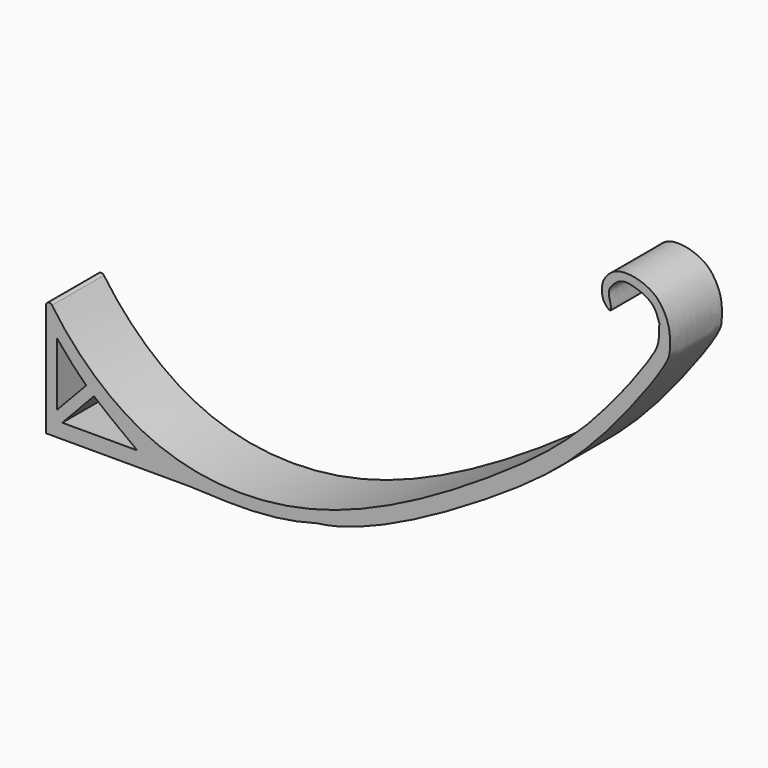
from build123d import *

# Parameters (mm, degrees)
F1_DEPTH = 10
F2_R     = 0.5


with BuildPart() as f1:
    # F0 (on Front) → F1 (new body)
    with BuildSketch(Plane.XZ):
        with BuildLine():
            add(Edge.make_bspline(
                [(-49.5372861624, -63.3506551385), (-45.9711812437, -68.9783096313), (-34.3891312467, -80.8068452574), (-7.4771664369, -82.0770632271), (19.8136309241, -66.0276906257), (34.1582339964, -54.972603579), (44.704253935, -40.8075554948), (44.9623912573, -39.2019823194), (44.9623912573, -36.7359444499)],
                knots=[0, 0, 0, 0, 0.1804424287, 0.3764422318, 0.5926473832, 0.7650211756, 0.9175145081, 1, 1, 1, 1], degree=3))
            Line((-49.5372861624, -63.3506551385), (-49.5372861624, -82.3942050338))
            Line((-49.5372861624, -82.3942050338), (-27.4697560817, -82.3942050338))
            add(Edge.make_bspline(
                [(-27.4697560817, -82.3942050338), (-20.2875528485, -82.7282592654), (-14.7756319493, -82.9787999392), (-7.789125666, -81.0224413872)],
                knots=[0, 0, 0, 0, 19.7283792811, 19.7283792811, 19.7283792811, 19.7283792811], degree=3))
            add(Edge.make_bspline(
                [(44.9623912573, -36.7359444499), (44.7225196199, -35.9576764429), (44.2204775105, -34.3287914439), (41.5174001013, -33.0556377763), (39.1263474952, -32.5947156876), (37.6625317005, -33.9092874197), (36.8828394431, -35.0930642768), (38.0223737466, -38.0416882903), (36.1468771987, -36.704729477), (35.9419076494, -34.1418832649), (37.073259725, -32.5554470337), (38.5815600447, -31.5148595343), (41.269623617, -31.591566979), (43.5211229907, -32.4889378286), (45.1038800008, -33.7085644705), (46.7127667446, -36.6320892502), (46.593533137, -39.768893845), (46.4949896463, -41.7964651413), (35.3290028327, -56.9449708658), (21.5371832683, -67.9613858584), (0, -80.119587481), (-7.789125666, -81.0224413872)],
                knots=[0, 0, 0, 0, 0.0410036186, 0.0858189963, 0.1261641675, 0.1611085302, 0.1931310538, 0.231977277, 0.26054229, 0.302799575, 0.338897493, 0.3736893675, 0.4164308355, 0.4574355751, 0.4944062687, 0.5423556073, 0.5876910609, 0.6236099552, 0.7319765857, 0.8529617587, 1, 1, 1, 1], degree=3))
        make_face()
        with BuildLine():
            Line((-47.8471666574, -78.6584094167), (-47.8471666574, -68.9484551549))
            add(Edge.make_bspline(
                [(-47.8471666574, -68.9484551549), (-46.1159435631, -71.0674730926), (-44.804396005, -72.5225857668), (-43.3508326202, -73.882997036)],
                knots=[0, 0, 0, 0, 7.1600418666, 7.1600418666, 7.1600418666, 7.1600418666], degree=3))
            add(Edge.make_bspline(
                [(-43.3508326202, -73.882997036), (-42.9663928635, -74.2427998371), (-42.5720190787, -74.5959782608), (-42.1573197068, -74.953062851)],
                knots=[7.1600418666, 7.1600418666, 7.1600418666, 7.1600418666, 9.0537362059, 9.0537362059, 9.0537362059, 9.0537362059], degree=3))
            add(Edge.make_bspline(
                [(-42.1573197068, -74.953062851), (-40.4886622993, -76.3898912787), (-38.4909179095, -77.8899635625), (-35.4870967567, -80.139324069)],
                knots=[9.0537362059, 9.0537362059, 9.0537362059, 9.0537362059, 16.6735381669, 16.6735381669, 16.6735381669, 16.6735381669], degree=3))
            Line((-35.4870967567, -80.139324069), (-47.0404922962, -80.139324069))
            Line((-47.0404922962, -80.139324069), (-47.8471666574, -80.139324069))
            Line((-47.8471666574, -80.139324069), (-47.8471666574, -78.6584094167))
        make_face(mode=Mode.SUBTRACT)
        with BuildLine():
            Line((-43.3508326202, -73.882997036), (-47.8471666574, -78.6584094167))
            Line((-47.8471666574, -78.6584094167), (-47.8471666574, -80.139324069))
            Line((-47.8471666574, -80.139324069), (-47.0404922962, -80.139324069))
            Line((-47.0404922962, -80.139324069), (-42.1573197068, -74.953062851))
            add(Edge.make_bspline(
                [(-43.3508326202, -73.882997036), (-42.9663928635, -74.2427998371), (-42.5720190787, -74.5959782608), (-42.1573197068, -74.953062851)],
                knots=[7.1600418666, 7.1600418666, 7.1600418666, 7.1600418666, 9.0537362059, 9.0537362059, 9.0537362059, 9.0537362059], degree=3))
        make_face()
    extrude(amount=F1_DEPTH)

    # F2
    f2_edges = [f1.edges().sort_by_distance(p)[0] for p in [
        (-49.537286, -5, -63.350655),
    ]]
    fillet(f2_edges, radius=F2_R)


solid = f1.part
